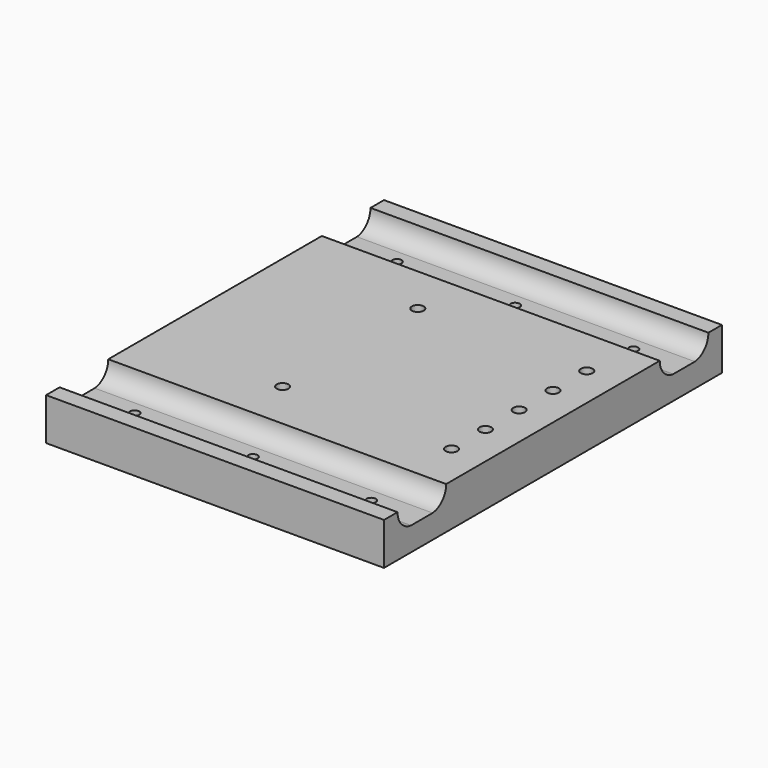
from build123d import *

# Parameters (mm, degrees)
F0_W     = 200
F0_H     = 10
F0_H_2   = 36
F0_R     = 2.75
F0_H_3   = 158
F0_R_2   = 3.5
F1_DEPTH = 25
F3_DEPTH = 200.001


with BuildPart() as f1:
    # F0 (on Top) → F1 (new body)
    with BuildSketch(Plane.XY):
        with Locations((-30, 120)):
            Rectangle(F0_W, F0_H)
        with Locations((-30, 97)):
            Rectangle(F0_W, F0_H_2)
        with Locations((-100, 97)):
            Circle(F0_R, mode=Mode.SUBTRACT)
        with Locations((-30, 97)):
            Circle(F0_R, mode=Mode.SUBTRACT)
        with Locations((40, 97)):
            Circle(F0_R, mode=Mode.SUBTRACT)
        with Locations((-30, 0)):
            Rectangle(F0_W, F0_H_3)
        with Locations((-50, -50)):
            Circle(F0_R_2, mode=Mode.SUBTRACT)
        with Locations((50, -50)):
            Circle(F0_R_2, mode=Mode.SUBTRACT)
        with Locations((50, -25)):
            Circle(F0_R_2, mode=Mode.SUBTRACT)
        with Locations((-50, 50)):
            Circle(F0_R_2, mode=Mode.SUBTRACT)
        with Locations((50, 0)):
            Circle(F0_R_2, mode=Mode.SUBTRACT)
        with Locations((50, 25)):
            Circle(F0_R_2, mode=Mode.SUBTRACT)
        with Locations((50, 50)):
            Circle(F0_R_2, mode=Mode.SUBTRACT)
        with Locations((-30, -97)):
            Rectangle(F0_W, F0_H_2)
        with Locations((-100, -97)):
            Circle(F0_R, mode=Mode.SUBTRACT)
        with Locations((-30, -97)):
            Circle(F0_R, mode=Mode.SUBTRACT)
        with Locations((40, -97)):
            Circle(F0_R, mode=Mode.SUBTRACT)
        with Locations((-30, -120)):
            Rectangle(F0_W, F0_H)
    extrude(amount=-F1_DEPTH)

    # F2 (on face) → F3 (cut, through all)
    with BuildSketch(Plane(origin=(-130, 0, 0), x_dir=(0, -1, 0), z_dir=(-1, 0, 0))):
        with BuildLine():
            Line((-79, 0), (-115, 0))
            ThreePointArc((-115, 0), (-112.126338, -7.433034), (-105, -11))
            Line((-105, -11), (-89, -11))
            ThreePointArc((-89, -11), (-81.873662, -7.433034), (-79, 0))
        make_face()
        with BuildLine():
            Line((115, 0), (79, 0))
            ThreePointArc((79, 0), (81.873662, -7.433034), (89, -11))
            Line((89, -11), (105, -11))
            ThreePointArc((105, -11), (112.126338, -7.433034), (115, 0))
        make_face()
    extrude(amount=-F3_DEPTH, mode=Mode.SUBTRACT)


solid = f1.part
